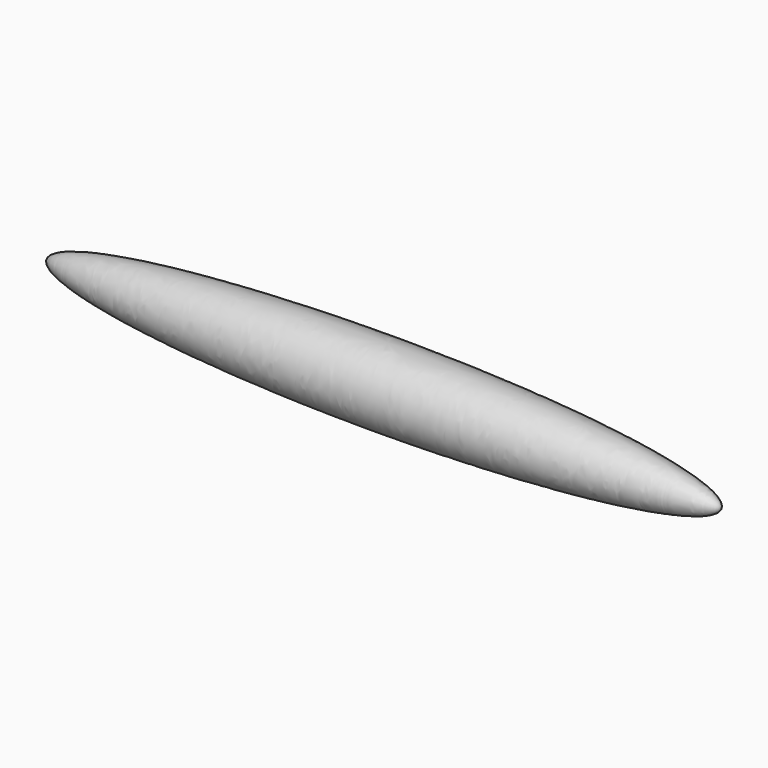
from build123d import *


with BuildPart() as f2:
    # F1 (on Front) → F2 (revolve)
    with BuildSketch(Plane.XZ):
        with BuildLine():
            Line((-628.65, 0), (628.65, 0))
            add(Edge.make_bspline(
                [(628.65, 0), (628.65, 69.85), (0, 69.85), (-628.65, 69.85), (-628.65, 0)],
                knots=[3.1415926536, 3.1415926536, 3.1415926536, 4.7123889804, 4.7123889804, 6.2831853072, 6.2831853072, 6.2831853072], degree=2, weights=[1, 0.7071067812, 1, 0.7071067812, 1]))
        make_face()
    revolve(axis=Axis((-314.325, 0, 0), (-1, 0, 0)))


with BuildPart() as f2_1:
    # F3: moved
    add(f2.part.moved(Location((488.95, 0, 0))))


solid = f2_1.part
